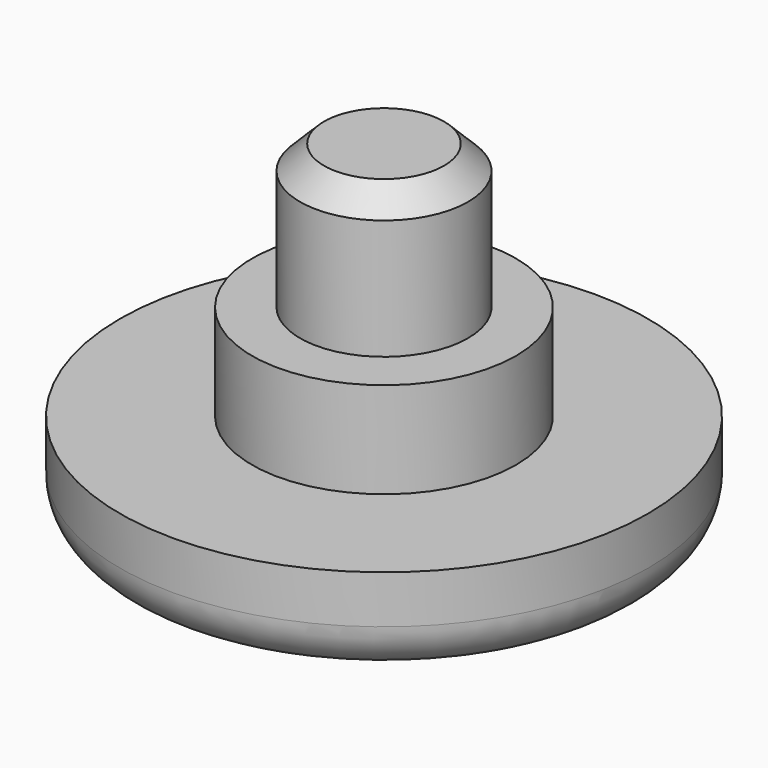
from build123d import *

# Parameters (mm, degrees)
F0_R     = 5.5
F1_DEPTH = 2
F2_R     = 2.75
F3_DEPTH = 2
F4_R     = 1.75
F5_DEPTH = 3
F6_R     = 1
F7_SIZE  = 0.5


with BuildPart() as f1:
    # F0 (on Top) → F1 (new body)
    with BuildSketch(Plane.XY):
        Circle(F0_R)
    extrude(amount=F1_DEPTH)

    # F2 (on face) → F3 (join)
    with BuildSketch(Plane.XY.offset(2)):
        Circle(F2_R)
    extrude(amount=F3_DEPTH)

    # F4 (on face) → F5 (join)
    with BuildSketch(Plane.XY.offset(4)):
        Circle(F4_R)
    extrude(amount=F5_DEPTH)

    # F6
    f6_edges = [f1.edges().sort_by_distance(p)[0] for p in [
        (-5.5, 0, 0),
    ]]
    fillet(f6_edges, radius=F6_R)

    # F7
    f7_edges = [f1.edges().sort_by_distance(p)[0] for p in [
        (-1.75, 0, 7),
    ]]
    chamfer(f7_edges, length=F7_SIZE)


solid = f1.part
